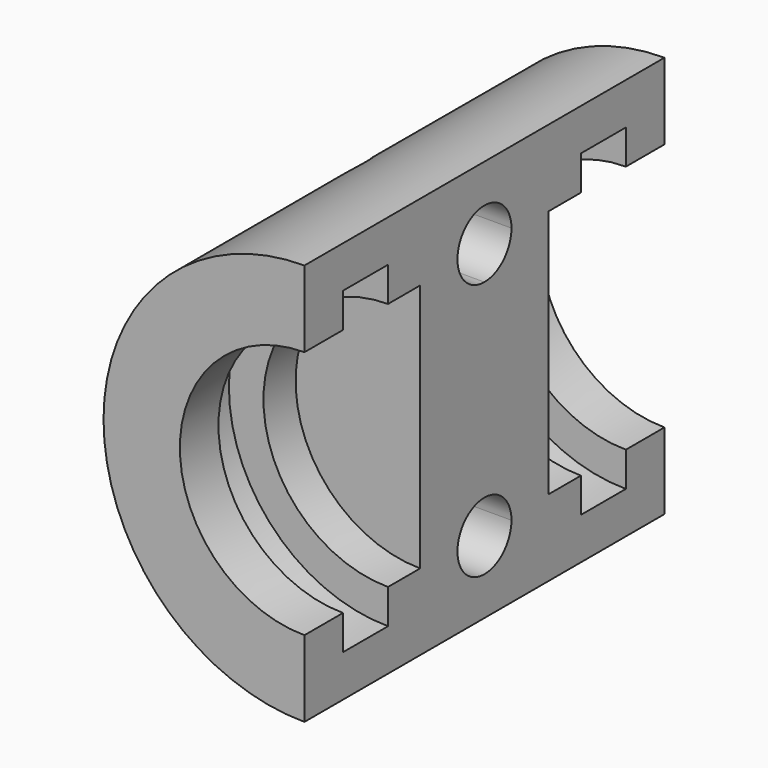
from build123d import *

# Parameters (mm, degrees)
F0_R      = 12.5
F0_R_2    = 7.75
F1_DEPTH  = 28
F2_W      = 3.5
F2_H      = 7.3783658981
F5_R      = 8.5
F6_DEPTH  = 5
F8_DEPTH  = 12.5
F10_DEPTH = 30


with BuildPart() as f1:
    # F0 (on Front) → F1 (new body)
    with BuildSketch(Plane.XZ):
        Circle(F0_R)
        Circle(F0_R_2, mode=Mode.SUBTRACT)
    extrude(amount=F1_DEPTH)

    # F2 (on Right) → F3 (revolve, cut)
    with BuildSketch(Plane.YZ):
        with Locations((-23.25, 6.2108170509)):
            Rectangle(F2_W, F2_H)
        with Locations((-4.75, 6.2108170509)):
            Rectangle(F2_W, F2_H)
    revolve(axis=Axis((0, -29.1106614321, 0), (0, 1, 0)), mode=Mode.SUBTRACT)

    # F5 (on mid) → F6 (join, symmetric)
    with BuildSketch(Plane.XZ.offset(14)):
        Circle(F5_R)
    extrude(amount=F6_DEPTH, both=True)

    # F7 (on Right) → F8 (cut, symmetric)
    with BuildSketch(Plane.YZ):
        with BuildLine():
            ThreePointArc((-11.9, 8), (-15.4849242405, 9.4849242405), (-14, 5.9))
            ThreePointArc((-14, 5.9), (-12.5150757595, 6.5150757595), (-11.9, 8))
        make_face()
        with BuildLine():
            ThreePointArc((-11.9, -8), (-12.5150757595, -6.5150757595), (-14, -5.9))
            ThreePointArc((-14, -5.9), (-15.4849242405, -9.4849242405), (-11.9, -8))
        make_face()
    extrude(amount=F8_DEPTH, both=True, mode=Mode.SUBTRACT)

    # F9 (on face) → F10 (cut)
    with BuildSketch(Plane.XZ.offset(28)):
        with BuildLine():
            Line((0, 12.5), (0, 7.75))
            ThreePointArc((0, 7.75), (5.4800775542, 5.4800775542), (7.75, 0))
            ThreePointArc((7.75, 0), (5.4800775542, -5.4800775542), (0, -7.75))
            Line((0, -7.75), (0, -12.5))
            ThreePointArc((0, -12.5), (8.8388347648, -8.8388347648), (12.5, 0))
            ThreePointArc((12.5, 0), (8.8388347648, 8.8388347648), (0, 12.5))
        make_face()
        with BuildLine():
            Line((0, 7.75), (0, -2.1648029558))
            Line((0, -2.1648029558), (0, -7.75))
            ThreePointArc((0, -7.75), (5.4800775542, -5.4800775542), (7.75, 0))
            ThreePointArc((7.75, 0), (5.4800775542, 5.4800775542), (0, 7.75))
        make_face()
    extrude(amount=-F10_DEPTH, mode=Mode.SUBTRACT)


solid = f1.part
